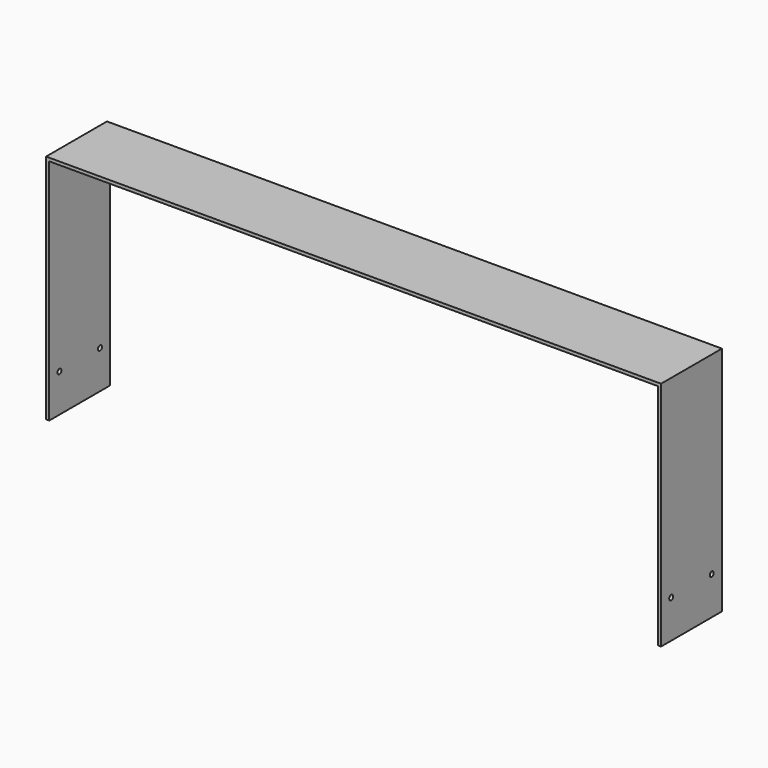
from build123d import *

# Parameters (mm, degrees)
F0_W     = 615.95
F0_H     = 76.2
F1_DEPTH = 231.775
F2_W     = 609.6
F2_H     = 228.6
F3_DEPTH = 76.201
F4_R     = 2.4765
F5_DEPTH = 615.951


with BuildPart() as f1:
    # F0 (on Top) → F1 (new body)
    with BuildSketch(Plane.XY):
        Rectangle(F0_W, F0_H)
    extrude(amount=F1_DEPTH)

    # F2 (on face) → F3 (cut, through all)
    with BuildSketch(Plane.XZ.offset(38.1)):
        with Locations((0, 114.3)):
            Rectangle(F2_W, F2_H)
    extrude(amount=-F3_DEPTH, mode=Mode.SUBTRACT)

    # F4 (on face) → F5 (cut, through all)
    with BuildSketch(Plane.YZ.offset(307.975)):
        with BuildLine():
            ThreePointArc((-27.8765, 38.1), (-25.4, 35.6235), (-22.9235, 38.1))
            ThreePointArc((-22.9235, 38.1), (-25.4, 40.5765), (-27.8765, 38.1))
        make_face()
        with Locations((25.4, 38.1)):
            Circle(F4_R)
    extrude(amount=-F5_DEPTH, mode=Mode.SUBTRACT)


solid = f1.part
